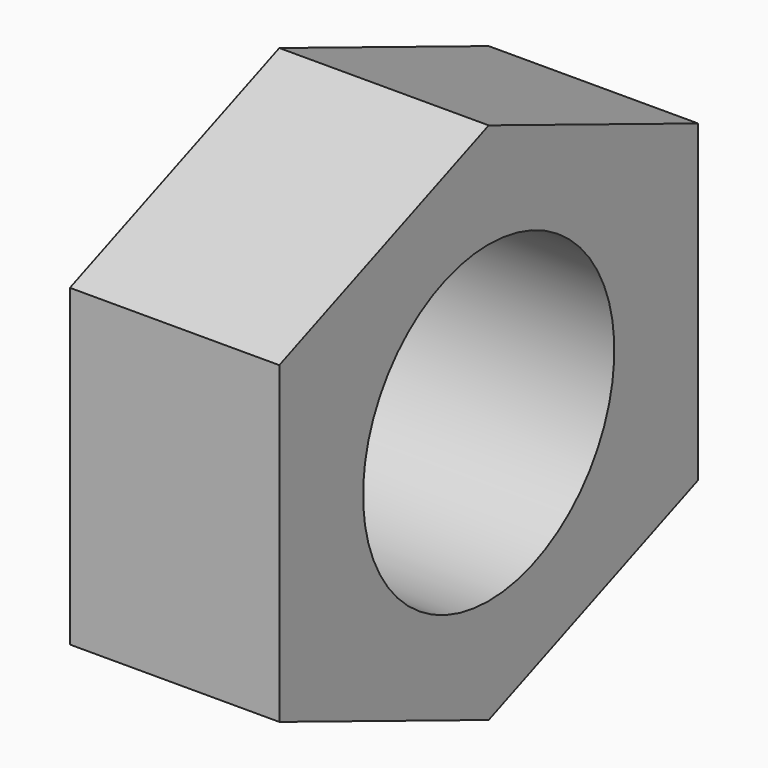
from build123d import *

# Parameters (mm, degrees)
F0_R     = 1.5
F1_DEPTH = 2
F3_ANGLE = 90


with BuildPart() as f1:
    # F0 (on Top) → F1 (new body)
    with BuildSketch(Plane.XY):
        Polygon((1.5, 2.5), (-1.5, 2.5), (-2.5, 0), (-1.5, -2.5), (1.5, -2.5), (2.5, 0), align=None)
        Circle(F0_R, mode=Mode.SUBTRACT)
    extrude(amount=F1_DEPTH)


with BuildPart() as f1_1:
    # F3: moved
    add(f1.part.rotate(Axis((0, -0.30454, 0), (0, 1, 0)), F3_ANGLE))


solid = f1_1.part
